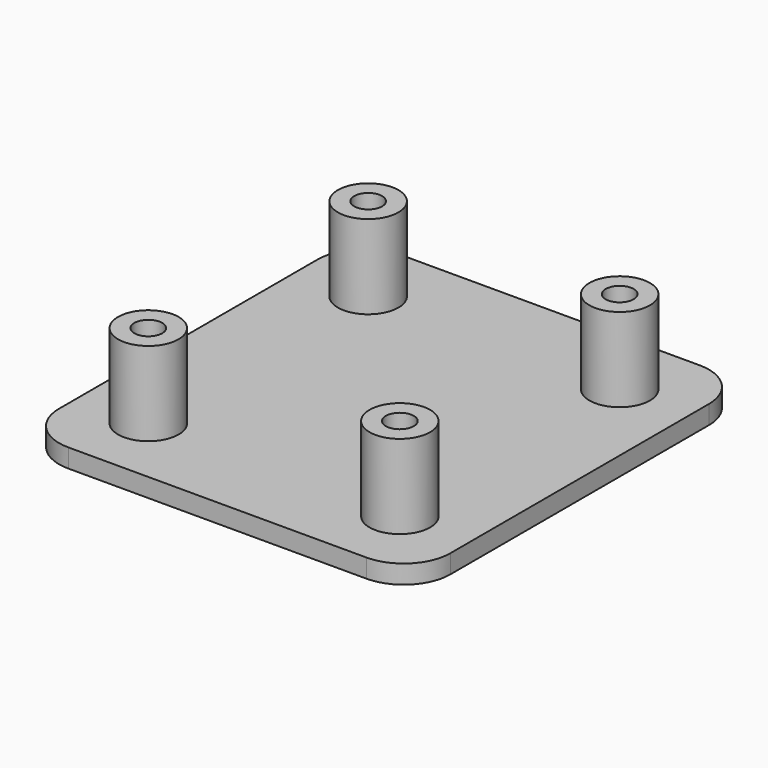
from build123d import *

# Parameters (mm, degrees)
F1_DEPTH = 2
F2_R     = 3.25
F3_DEPTH = 9
F5_D     = 3
F5_DEPTH = 9
F5_TIP   = 0.9012909285


with BuildPart() as f1:
    # F0 (on Top) → F1 (new body)
    with BuildSketch(Plane.XY):
        with BuildLine():
            ThreePointArc((21, 17.35), (19.5355339059, 20.8855339059), (16, 22.35))
            Line((16, 22.35), (-16, 22.35))
            ThreePointArc((-16, 22.35), (-19.5355339059, 20.8855339059), (-21, 17.35))
            Line((-21, 17.35), (-21, -17.35))
            ThreePointArc((-21, -17.35), (-19.5355339059, -20.8855339059), (-16, -22.35))
            Line((-16, -22.35), (16, -22.35))
            ThreePointArc((16, -22.35), (19.5355339059, -20.8855339059), (21, -17.35))
            Line((21, -17.35), (21, 17.35))
        make_face()
    extrude(amount=F1_DEPTH)

    # F2 (on face) → F3 (join)
    with BuildSketch(Plane.XY.offset(2)):
        with Locations((13.5, -14.75)):
            Circle(F2_R)
        with Locations((-13.5, 14.75)):
            Circle(F2_R)
        with Locations((13.5, 14.75)):
            Circle(F2_R)
        with Locations((-13.5, -14.75)):
            Circle(F2_R)
    extrude(amount=F3_DEPTH)

    # F5
    with Locations(Plane.XY.offset(11)):
        with Locations((-13.5, 14.75), (13.5, 14.75), (13.5, -14.75), (-13.5, -14.75)):
            Hole(F5_D / 2, depth=F5_DEPTH)
            with Locations((0, 0, -(F5_DEPTH + F5_TIP / 2))):  # 118° drill point
                Cone(0, F5_D / 2, F5_TIP, mode=Mode.SUBTRACT)


solid = f1.part
